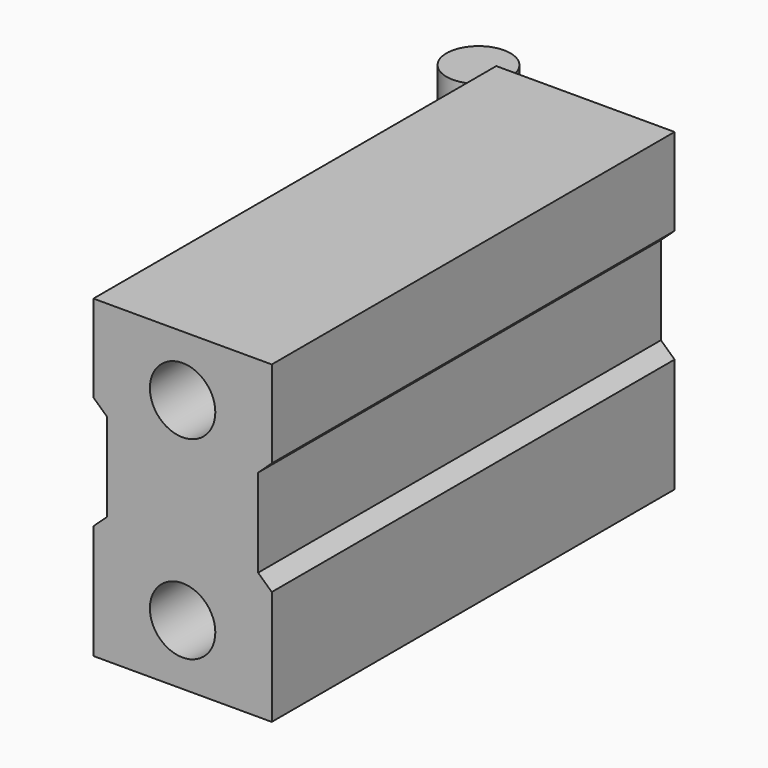
from build123d import *

# Parameters (mm, degrees)
F1_DEPTH = 50
F2_R     = 3.25
F3_DEPTH = 10
F4_R     = 3.25
F5_DEPTH = 10
F6_R     = 3.175
F7_DEPTH = 20


with BuildPart() as f1:
    # F0 (on Front) → F1 (new body)
    with BuildSketch(Plane.XZ):
        Polygon((0, 0), (8.854167, 0), (17.708333, 0), (17.708333, 11.354167), (16.354167, 12.604167), (16.354167, 21.354167), (17.708333, 22.604167), (17.708333, 31.25), (8.854167, 31.25), (0, 31.25), (0, 22.604167), (1.354167, 21.354167), (1.354167, 12.604167), (0, 11.354167), align=None)
    extrude(amount=F1_DEPTH)

    # F2 (on face) → F3 (cut)
    with BuildSketch(Plane.XZ.offset(50)):
        with Locations((8.854167, 6)):
            Circle(F2_R)
        with Locations((8.854167, 25.25)):
            Circle(F2_R)
    extrude(amount=-F3_DEPTH, mode=Mode.SUBTRACT)

    # F4 (on face) → F5 (cut)
    with BuildSketch(Plane(origin=(0, 0, 0), x_dir=(-1, 0, 0), z_dir=(0, 1, 0))):
        with Locations((-8.854167, 6)):
            Circle(F4_R)
        with Locations((-8.854167, 25.25)):
            Circle(F4_R)
    extrude(amount=-F5_DEPTH, mode=Mode.SUBTRACT)


with BuildPart() as f7:
    # F6 (on Top) → F7 (new body)
    with BuildSketch(Plane.XY):
        with Locations((-14.687948, 16.156744)):
            Circle(F6_R)
    extrude(amount=F7_DEPTH)


solid = Compound([f1.part, f7.part])
